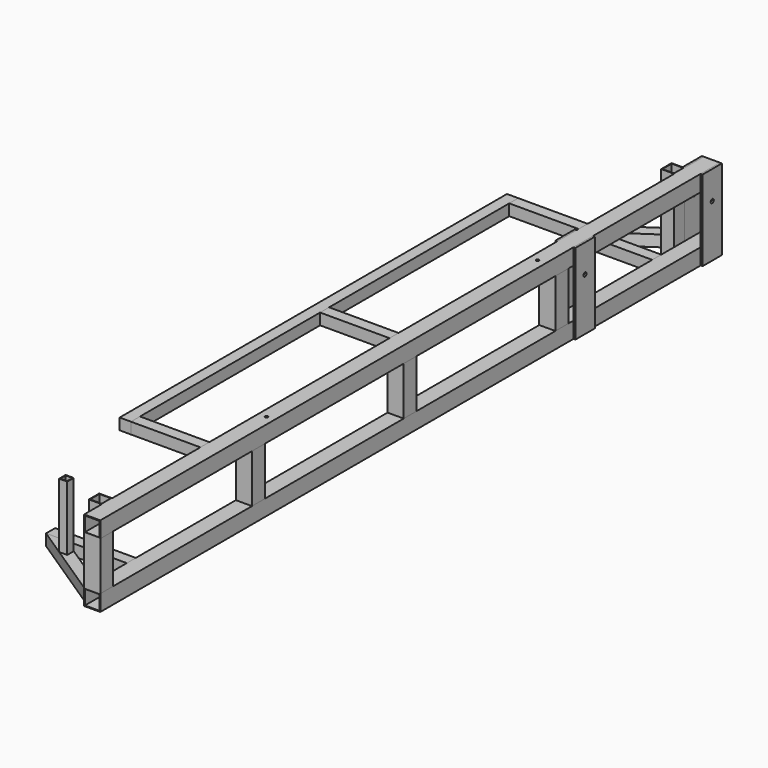
from build123d import *

# Parameters (mm, degrees)
F0_W      = 50
F0_H      = 50
F0_W_2    = 45
F0_H_2    = 45
F1_DEPTH  = 1200
F2_W      = 50
F2_H      = 50
F3_DEPTH  = 75
F2_W_2    = 6
F2_H_2    = 75
F4_DEPTH  = 125
F5_W      = 35
F5_H      = 35
F6_DEPTH  = 250
F9_DEPTH  = 35
F11_W     = 40
F11_H     = 40
F11_W_2   = 36
F11_H_2   = 36
F12_DEPTH = 250
F14_W     = 1500
F14_H     = 35
F15_DEPTH = 35
F16_R     = 6
F17_DEPTH = 100
F18_R     = 4.5
F19_DEPTH = 130
F20_W     = 25
F20_H     = 25
F20_W_2   = 21
F20_H_2   = 21
F21_DEPTH = 200


with BuildPart() as f1:
    # F0 (on Front) → F1 (new body, symmetric)
    with BuildSketch(Plane.XZ):
        with Locations((25, 100)):
            Rectangle(F0_W, F0_H)
        with Locations((25, 100)):
            Rectangle(F0_W_2, F0_H_2, mode=Mode.SUBTRACT)
    extrude(amount=F1_DEPTH, both=True)

    # F18 (on Top) → F19 (cut)
    with BuildSketch(Plane.XY):
        with Locations((25, -525)):
            Circle(F18_R)
        with Locations((25, 525)):
            Circle(F18_R)
    extrude(amount=F19_DEPTH, mode=Mode.SUBTRACT)


with BuildPart() as f1b:
    # F0 (on Front) → F1, piece 2 (new body, symmetric)
    with BuildSketch(Plane.XZ):
        with Locations((25, -100)):
            Rectangle(F0_W, F0_H)
        with Locations((25, -100)):
            Rectangle(F0_W_2, F0_H_2, mode=Mode.SUBTRACT)
    extrude(amount=F1_DEPTH, both=True)


with BuildPart() as f3:
    # F2 (on Top) → F3 (new body, symmetric)
    with BuildSketch(Plane.XY):
        with Locations((25, -1175)):
            Rectangle(F2_W, F2_H)
    extrude(amount=F3_DEPTH, both=True)


with BuildPart() as f3b:
    # F2 (on Top) → F3, piece 2 (new body, symmetric)
    with BuildSketch(Plane.XY):
        with Locations((25, -587.5)):
            Rectangle(F2_W, F2_H)
    extrude(amount=F3_DEPTH, both=True)


with BuildPart() as f3c:
    # F2 (on Top) → F3, piece 3 (new body, symmetric)
    with BuildSketch(Plane.XY):
        with Locations((25, 0)):
            Rectangle(F2_W, F2_H)
    extrude(amount=F3_DEPTH, both=True)


with BuildPart() as f3d:
    # F2 (on Top) → F3, piece 4 (new body, symmetric)
    with BuildSketch(Plane.XY):
        with Locations((25, 587.5)):
            Rectangle(F2_W, F2_H)
    extrude(amount=F3_DEPTH, both=True)


with BuildPart() as f4:
    # F2 (on Top) → F4 (new body, symmetric)
    with BuildSketch(Plane.XY):
        with Locations((53, 1162.5)):
            Rectangle(F2_W_2, F2_H_2)
    extrude(amount=F4_DEPTH, both=True)


with BuildPart() as f4b:
    # F2 (on Top) → F4, piece 2 (new body, symmetric)
    with BuildSketch(Plane.XY):
        with Locations((-3, 1162.5)):
            Rectangle(F2_W_2, F2_H_2)
    extrude(amount=F4_DEPTH, both=True)


with BuildPart() as f4c:
    # F2 (on Top) → F4, piece 3 (new body, symmetric)
    with BuildSketch(Plane.XY):
        with Locations((-3, 670)):
            Rectangle(F2_W_2, F2_H_2)
    extrude(amount=F4_DEPTH, both=True)


with BuildPart() as f4d:
    # F2 (on Top) → F4, piece 4 (new body, symmetric)
    with BuildSketch(Plane.XY):
        with Locations((53, 670)):
            Rectangle(F2_W_2, F2_H_2)
    extrude(amount=F4_DEPTH, both=True)


with BuildPart() as f6:
    # F5 (on Right) → F6 (new body)
    with BuildSketch(Plane.YZ):
        with Locations((0, 107.5)):
            Rectangle(F5_W, F5_H)
    extrude(amount=-F6_DEPTH)


with BuildPart() as f6b:
    # F5 (on Right) → F6, piece 2 (new body)
    with BuildSketch(Plane.YZ):
        with Locations((-732.5, 107.5)):
            Rectangle(F5_W, F5_H)
    extrude(amount=-F6_DEPTH)


with BuildPart() as f6c:
    # F5 (on Right) → F6, piece 3 (new body)
    with BuildSketch(Plane.YZ):
        with Locations((732.5, 107.5)):
            Rectangle(F5_W, F5_H)
    extrude(amount=-F6_DEPTH)


with BuildPart() as f6d:
    # F5 (on Right) → F6, piece 4 (new body)
    with BuildSketch(Plane.YZ):
        with Locations((1017.5, -92.5)):
            Rectangle(F5_W, F5_H)
    extrude(amount=-F6_DEPTH)


with BuildPart() as f6e:
    # F5 (on Right) → F6, piece 5 (new body)
    with BuildSketch(Plane.YZ):
        with Locations((-1017.5, -92.5)):
            Rectangle(F5_W, F5_H)
    extrude(amount=-F6_DEPTH)


with BuildPart() as f9:
    # F8 (on offset) → F9 (new body)
    with BuildSketch(Plane.XY.offset(-75)):
        Polygon((-6, 1157.7467199211), (-6, 1200), (-249.9643119397, 1035), (-187.4898125358, 1035), align=None)
    extrude(amount=-F9_DEPTH)


with BuildPart() as f9b:
    # F8 (on offset) → F9, piece 2 (new body)
    with BuildSketch(Plane.XY.offset(-75)):
        Polygon((-186.4609329665, -1035), (-250, -1035), (0, -1200), (0, -1158.0642157579), align=None)
    extrude(amount=-F9_DEPTH)

    # F20 (on offset) → F21 (join)
    with BuildSketch(Plane.XY.offset(-75)):
        with Locations((-151.6451276395, -1079.1642157579)):
            Rectangle(F20_W, F20_H)
        with Locations((-151.6451276395, -1079.1642157579)):
            Rectangle(F20_W_2, F20_H_2, mode=Mode.SUBTRACT)
    extrude(amount=F21_DEPTH)


with BuildPart() as f12:
    # F11 (on offset) → F12 (new body)
    with BuildSketch(Plane.XY.offset(125)):
        with Locations((-20, 1105)):
            Rectangle(F11_W, F11_H)
        with Locations((-20, 1105)):
            Rectangle(F11_W_2, F11_H_2, mode=Mode.SUBTRACT)
    extrude(amount=-F12_DEPTH)


with BuildPart() as f12b:
    # F11 (on offset) → F12, piece 2 (new body)
    with BuildSketch(Plane.XY.offset(125)):
        with Locations((-20, -1111.6642157579)):
            Rectangle(F11_W, F11_H)
        with Locations((-20, -1111.6642157579)):
            Rectangle(F11_W_2, F11_H_2, mode=Mode.SUBTRACT)
    extrude(amount=-F12_DEPTH)


with BuildPart() as f15:
    # F14 (on offset) → F15 (new body)
    with BuildSketch(Plane(origin=(-250, 0, 0), x_dir=(0, -1, 0), z_dir=(-1, 0, 0))):
        with Locations((0, 107.5)):
            Rectangle(F14_W, F14_H)
    extrude(amount=-F15_DEPTH)


with BuildPart() as f17_tool:
    # F16 (on Right) → F17 (new body, symmetric)
    with BuildSketch(Plane.YZ):
        with Locations((1162.5, 37.5)):
            Circle(F16_R)
        with Locations((670, 37.5)):
            Circle(F16_R)
    extrude(amount=F17_DEPTH, both=True)


with BuildPart() as f4_1:
    add(f4.part)

    # F17: cut by f17_tool
    add(f17_tool.part, mode=Mode.SUBTRACT)


with BuildPart() as f4b_1:
    add(f4b.part)

    # F17: cut by f17_tool
    add(f17_tool.part, mode=Mode.SUBTRACT)


with BuildPart() as f4c_1:
    add(f4c.part)

    # F17: cut by f17_tool
    add(f17_tool.part, mode=Mode.SUBTRACT)


with BuildPart() as f4d_1:
    add(f4d.part)

    # F17: cut by f17_tool
    add(f17_tool.part, mode=Mode.SUBTRACT)


solid = Compound([f1.part, f1b.part, f3.part, f3b.part, f3c.part, f3d.part, f6.part, f6b.part, f6c.part, f6d.part, f6e.part, f9.part, f9b.part, f12.part, f12b.part, f15.part, f4_1.part, f4b_1.part, f4c_1.part, f4d_1.part])
